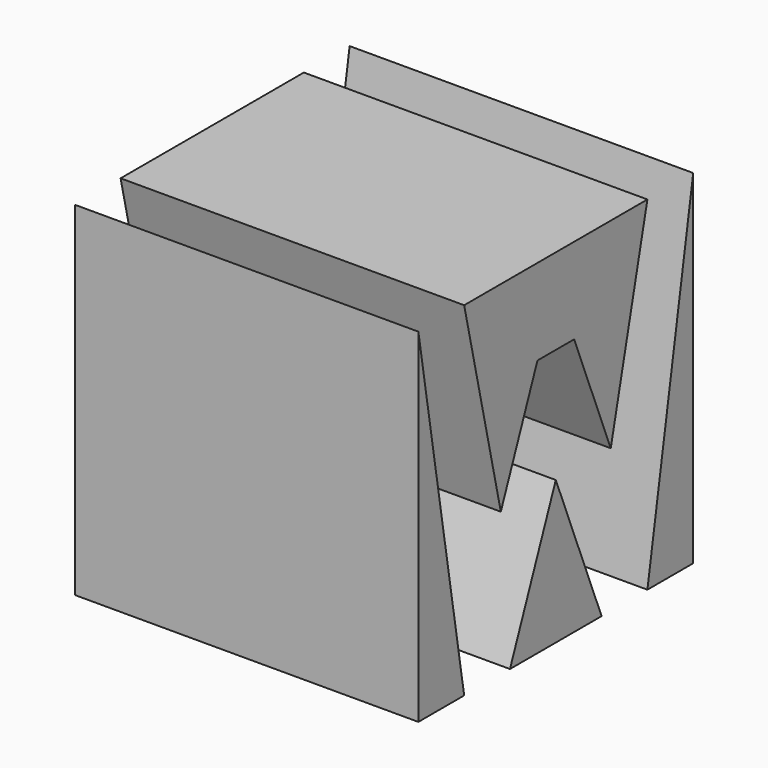
from build123d import *

# Parameters (mm, degrees)
F0_W     = 38.1
F0_H     = 38.099996
F1_DEPTH = 38.1
F5_DEPTH = 38.1


with BuildPart() as f1:
    # F0 (on Front) → F1 (new body)
    with BuildSketch(Plane.XZ):
        with Locations((19.05, 19.049998)):
            Rectangle(F0_W, F0_H)
    extrude(amount=F1_DEPTH)

    # F4 (on offset) → F5 (cut)
    with BuildSketch(Plane.YZ.offset(38.1)):
        Polygon((-38.1, 38.1), (-31.75, 0), (-25.4, 0), (-19.05, 15.875), (-12.7, 0), (-6.35, 0), (0, 38.1), (-6.35, 38.1), (-11.43, 15.875), (-16.51, 28.575), (-21.59, 28.575), (-26.67, 15.875), (-31.75, 38.1), align=None)
    extrude(amount=-F5_DEPTH, mode=Mode.SUBTRACT)


solid = f1.part
